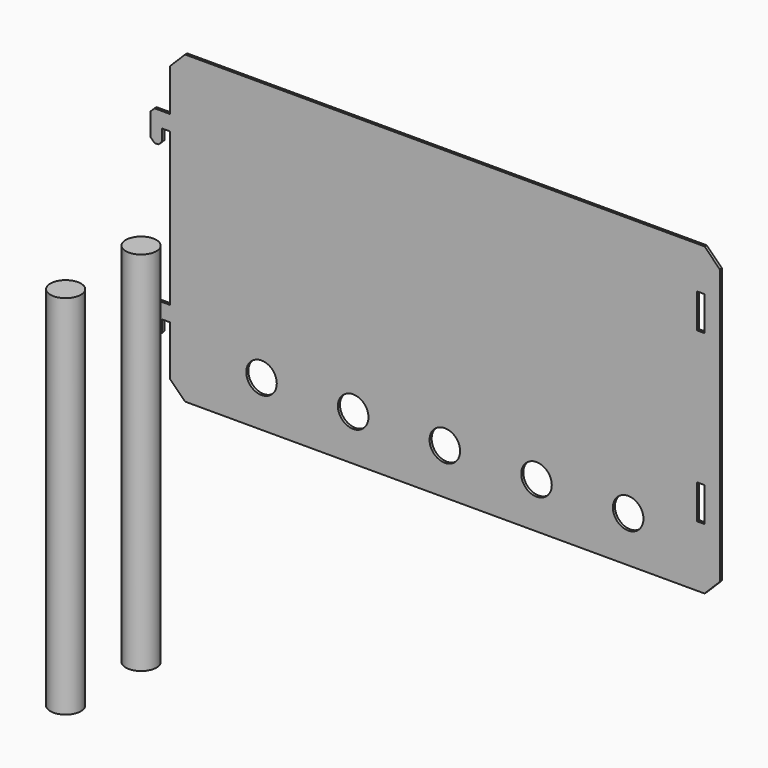
from build123d import *

# Parameters (mm, degrees)
F0_W      = 457.2
F0_H      = 254
F1_DEPTH  = 2.159
F3_DEPTH  = 2.159
F4_W      = 6.35
F4_H      = 28.575
F5_DEPTH  = 2.16
F6_R      = 12.7
F7_DEPTH  = 304.8
F8_R      = 12.7
F9_DEPTH  = 304.8
F10_SIZE  = 3.175
F11_SIZE  = 12.7
F12_R     = 12.7
F13_DEPTH = 2.16


with BuildPart() as f1:
    # F0 (on Front) → F1 (new body)
    with BuildSketch(Plane.XZ):
        with Locations((228.6, 127)):
            Rectangle(F0_W, F0_H)
    extrude(amount=F1_DEPTH)

    # F2 (on face) → F3 (join)
    with BuildSketch(Plane.XZ.offset(2.159)):
        Polygon((-6.35, 193.675), (0, 193.675), (0, 206.375), (-15.875, 206.375), (-15.875, 180.975), (-6.35, 180.975), align=None)
        Polygon((0, 53.975), (0, 66.675), (-15.875, 66.675), (-15.875, 41.275), (-6.35, 41.275), (-6.35, 53.975), align=None)
    extrude(amount=-F3_DEPTH)

    # F4 (on face) → F5 (cut, through all)
    with BuildSketch(Plane.XZ.offset(2.159)):
        with Locations((441.325, 204.7875)):
            Rectangle(F4_W, F4_H)
        with Locations((441.325, 65.0875)):
            Rectangle(F4_W, F4_H)
    extrude(amount=-F5_DEPTH, mode=Mode.SUBTRACT)

    # F10
    f10_edges = [f1.edges().sort_by_distance(p)[0] for p in [
        (-15.875, -1.0795, 206.375),
        (-15.875, -1.0795, 66.675),
        (-15.875, -1.0795, 41.275),
        (-6.35, -1.0795, 41.275),
        (-15.875, -1.0795, 180.975),
        (-6.35, -1.0795, 180.975),
    ]]
    chamfer(f10_edges, length=F10_SIZE)

    # F11
    f11_edges = [f1.edges().sort_by_distance(p)[0] for p in [
        (0, -1.0795, 254),
        (0, -1.0795, 0),
        (457.2, -1.0795, 0),
        (457.2, -1.0795, 254),
    ]]
    chamfer(f11_edges, length=F11_SIZE)

    # F12 (on face) → F13 (cut, through all)
    with BuildSketch(Plane.XZ.offset(2.159)):
        with Locations((76.2, 38.1)):
            Circle(F12_R)
        with Locations((152.4, 38.1)):
            Circle(F12_R)
        with Locations((228.6, 38.1)):
            Circle(F12_R)
        with Locations((304.8, 38.1)):
            Circle(F12_R)
        with Locations((381, 38.1)):
            Circle(F12_R)
    extrude(amount=-F13_DEPTH, mode=Mode.SUBTRACT)


with BuildPart() as f7:
    # F6 (on Top) → F7 (new body)
    with BuildSketch(Plane.XY):
        with Locations((219.10675, -384.302669)):
            Circle(F6_R)
    extrude(amount=F7_DEPTH)


with BuildPart() as f9:
    # F8 (on Top) → F9 (new body)
    with BuildSketch(Plane.XY):
        with Locations((219.075, -305.874876)):
            Circle(F8_R)
    extrude(amount=F9_DEPTH)


solid = Compound([f1.part, f7.part, f9.part])
